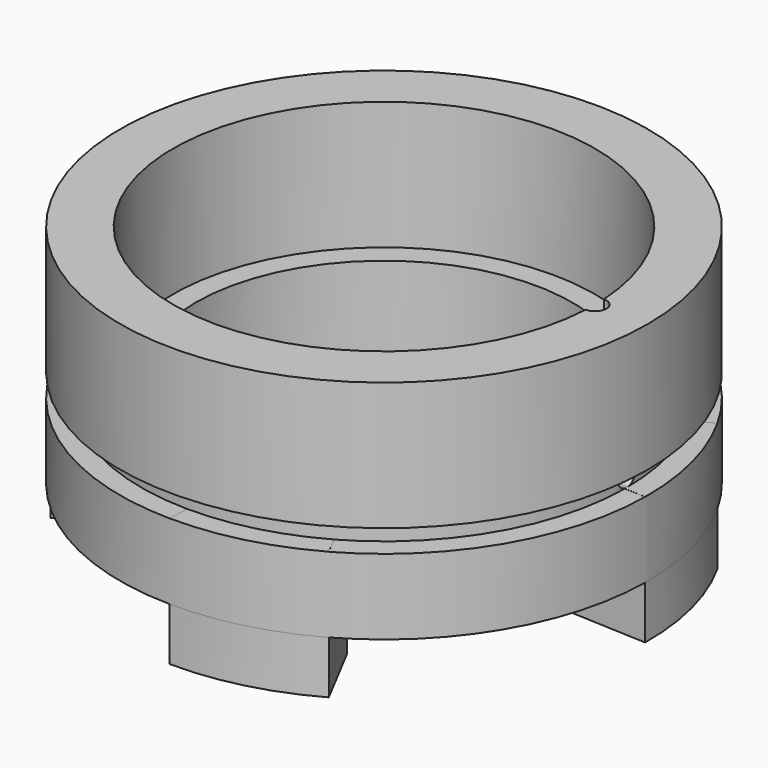
from build123d import *

# Parameters (mm, degrees)
SKETCH005_R          = 35
SKETCH005_R_2        = 25
PAD_DEPTH            = 10
SKETCH006_R          = 32.2
SKETCH006_R_2        = 25
PAD001_DEPTH         = 3
SKETCH_R             = 35
SKETCH_R_2           = 28
PAD002_DEPTH         = 17
SKETCH004_R          = 1.5
POCKET_DEPTH         = 20
SKETCH003_R          = 1.5
POCKET001_DEPTH      = 8.5
POCKET001_DEPTH_BACK = 100
PAD003_DEPTH         = 0.01
PAD003_DEPTH_BACK    = 17
POLARPATTERN_COUNT   = 4


with BuildPart() as part:
    # Sketch005 → Pad (new body)
    with BuildSketch(Plane.XY.offset(-1.5)):
        Circle(SKETCH005_R)
        Circle(SKETCH005_R_2, mode=Mode.SUBTRACT)
    extrude(amount=-PAD_DEPTH)

    # Sketch006 → Pad001 (join)
    with BuildSketch(Plane.XY.offset(-1.5)):
        Circle(SKETCH006_R)
        Circle(SKETCH006_R_2, mode=Mode.SUBTRACT)
    extrude(amount=PAD001_DEPTH)

    # Sketch → Pad002 (join)
    with BuildSketch(Plane.XY.offset(1.5)):
        Circle(SKETCH_R)
        Circle(SKETCH_R_2, mode=Mode.SUBTRACT)
    extrude(amount=PAD002_DEPTH)

    # Sketch004 → Pocket (cut)
    with BuildSketch(Plane(origin=(28, 0, 0), x_dir=(1, 0, 0), z_dir=(0, 0, 1))):
        Circle(SKETCH004_R)
    extrude(amount=POCKET_DEPTH, mode=Mode.SUBTRACT)

    # Sketch003 → Pocket001 (cut, two sides)
    with BuildSketch(Plane(origin=(35, 0, 0), x_dir=(0, 0.939693, 0.34202), z_dir=(1, 0, 0))) as pocket001_sk:
        Circle(SKETCH003_R)
    extrude(amount=-POCKET001_DEPTH, mode=Mode.SUBTRACT)
    extrude(pocket001_sk.sketch, amount=POCKET001_DEPTH_BACK, mode=Mode.SUBTRACT)

    # Sketch002 → Pad003 (join, two sides)
    with BuildSketch(Plane.XY.offset(-1.5)) as pad003_sk:
        with BuildLine():
            ThreePointArc((-34.997021, 0.456663), (-33.922719, -8.616793), (-30.53664, -17.103029))
            Line((-30.53664, -17.103029), (-21.762611, -12.504957))
            ThreePointArc((-25.093421, 0), (-24.251171, -6.471733), (-21.762611, -12.504957))
            Line((-34.997021, 0.456663), (-25.093421, 0))
        make_face()
    pad003 = extrude(amount=PAD003_DEPTH) + extrude(pad003_sk.sketch, amount=-PAD003_DEPTH_BACK)

    # PolarPattern: Pad003 ×4 about axis
    polarpattern_axis = Axis((0, 0, -1.5), (0, 0, 1))
    for i in range(1, POLARPATTERN_COUNT):
        add(pad003.rotate(polarpattern_axis, i * 360 / POLARPATTERN_COUNT))


solid = part.part
